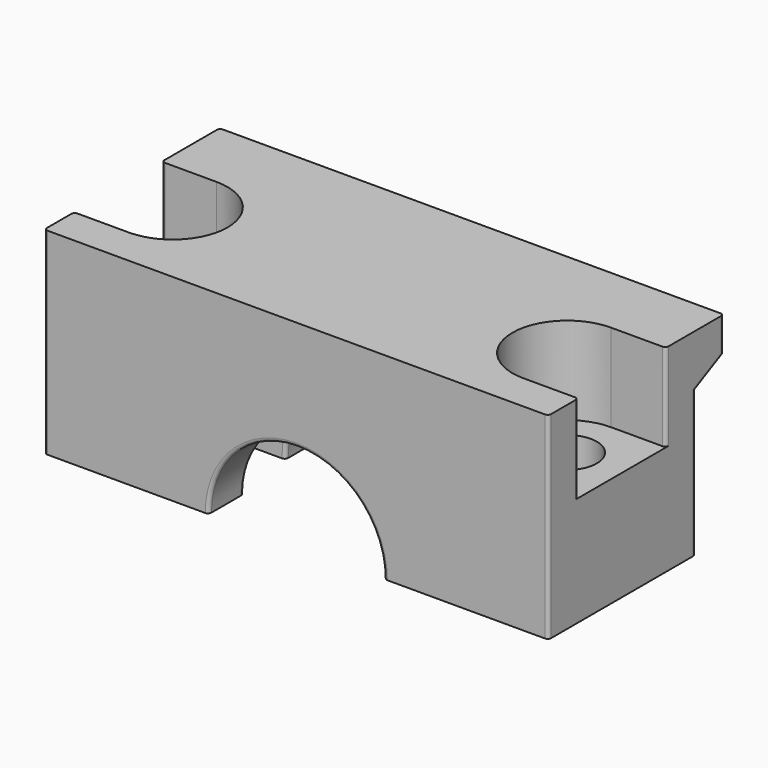
from build123d import *

# Parameters (mm, degrees)
F1_DEPTH  = 12.7
F4_DEPTH  = 3.81
F6_DEPTH  = 8.636
F8_DEPTH  = 29.211
F9_R      = 2.667
F10_DEPTH = 4.318
F12_DEPTH = 5.08
F13_R     = 1.7145
F14_DEPTH = 12.7
F15_R     = 5.715
F16_DEPTH = 2.794
F17_W     = 29.21
F17_H     = 12.7
F18_DEPTH = 10.668
F19_R     = 0.2


with BuildPart() as f1:
    # F0 (on Front) → F1 (new body)
    with BuildSketch(Plane.XZ):
        Polygon((-14.605, -3.7465), (14.605, -3.7465), (14.605, 3.7465), (14.605, 18.3515), (-14.605, 18.3515), (-14.605, 3.7465), align=None)
    extrude(amount=F1_DEPTH)

    # F3 (on offset) → F4 (cut)
    with BuildSketch(Plane.XZ.offset(6.35)):
        with BuildLine():
            Line((-9.144, -3.7465), (9.144, -3.7465))
            Line((9.144, -3.7465), (9.144, 6.9215))
            ThreePointArc((9.144, 6.9215), (0, 16.0655), (-9.144, 6.9215))
            Line((-9.144, 6.9215), (-9.144, -3.7465))
        make_face()
    extrude(amount=F4_DEPTH, mode=Mode.SUBTRACT)

    # F5 (on face) → F6 (cut)
    with BuildSketch(Plane.XZ.offset(12.7)):
        with BuildLine():
            Line((6.35, -3.7465), (4.8460111432, 5.3975))
            ThreePointArc((4.8460111432, 5.3975), (0, 12.0015), (-4.8460111432, 5.3975))
            Line((-4.8460111432, 5.3975), (-6.35, -3.7465))
            Line((-6.35, -3.7465), (6.35, -3.7465))
        make_face()
    extrude(amount=-F6_DEPTH, mode=Mode.SUBTRACT)

    # F7 (on face) → F8 (cut, through all)
    with BuildSketch(Plane.YZ.offset(14.605)):
        Polygon((-2.032, -0.6985), (0, -1.7145), (0, 16.3195), (-2.032, 15.3035), align=None)
    extrude(amount=-F8_DEPTH, mode=Mode.SUBTRACT)

    # F9 (on face) → F10 (cut, through all)
    with BuildSketch(Plane(origin=(0, -2.032, 0), x_dir=(-1, 0, 0), z_dir=(0, 1, 0))):
        with Locations((0, 6.9215)):
            Circle(F9_R)
    extrude(amount=-F10_DEPTH, mode=Mode.SUBTRACT)

    # F11 (on face) → F12 (cut)
    with BuildSketch(Plane.XY.offset(18.3515)):
        with BuildLine():
            Line((14.605, -4.191), (11.43, -4.191))
            ThreePointArc((11.43, -4.191), (8.255, -7.366), (11.43, -10.541))
            Line((11.43, -10.541), (14.605, -10.541))
            Line((14.605, -10.541), (14.605, -4.191))
        make_face()
        with BuildLine():
            ThreePointArc((-11.43, -10.541), (-8.255, -7.366), (-11.43, -4.191))
            Line((-11.43, -4.191), (-14.605, -4.191))
            Line((-14.605, -4.191), (-14.605, -10.541))
            Line((-14.605, -10.541), (-11.43, -10.541))
        make_face()
    extrude(amount=-F12_DEPTH, mode=Mode.SUBTRACT)

    # F13 (on face) → F14 (cut)
    with BuildSketch(Plane.XY.offset(13.2715)):
        with Locations((11.43, -7.366)):
            Circle(F13_R)
        with Locations((-11.43, -7.366)):
            Circle(F13_R)
    extrude(amount=-F14_DEPTH, mode=Mode.SUBTRACT)

    # F15 (on face) → F16 (cut)
    with BuildSketch(Plane.XZ.offset(6.35)):
        with Locations((0, 6.9215)):
            Circle(F15_R)
    extrude(amount=-F16_DEPTH, mode=Mode.SUBTRACT)

    # F17 (on face) → F18 (cut)
    with BuildSketch(Plane(origin=(0, 0, -3.7465), x_dir=(1, 0, 0), z_dir=(0, 0, -1))):
        with Locations((0, 6.35)):
            Rectangle(F17_W, F17_H)
    extrude(amount=-F18_DEPTH, mode=Mode.SUBTRACT)

    # F19
    f19_edges = [f1.edges().sort_by_distance(p)[0] for p in [
        (14.605, -12.7, 12.6365),
        (14.605, -2.032, 11.1125),
        (14.605, -1.016, 15.8115),
        (14.605, 0, 17.3355),
        (14.605, -10.541, 15.8115),
        (14.605, -4.191, 15.8115),
        (-14.605, -12.7, 12.6365),
        (-14.605, -10.541, 15.8115),
        (-14.605, -4.191, 15.8115),
        (-14.605, 0, 17.3355),
        (-14.605, -2.032, 11.1125),
        (-14.605, -1.016, 15.8115),
        (0, -12.7, 12.0015),
        (0, -10.16, 12.0015),
        (0, -6.35, 12.6365),
        (0, -3.556, 9.5885),
        (0, -2.032, 9.5885),
    ]]
    fillet(f19_edges, radius=F19_R)


solid = f1.part
